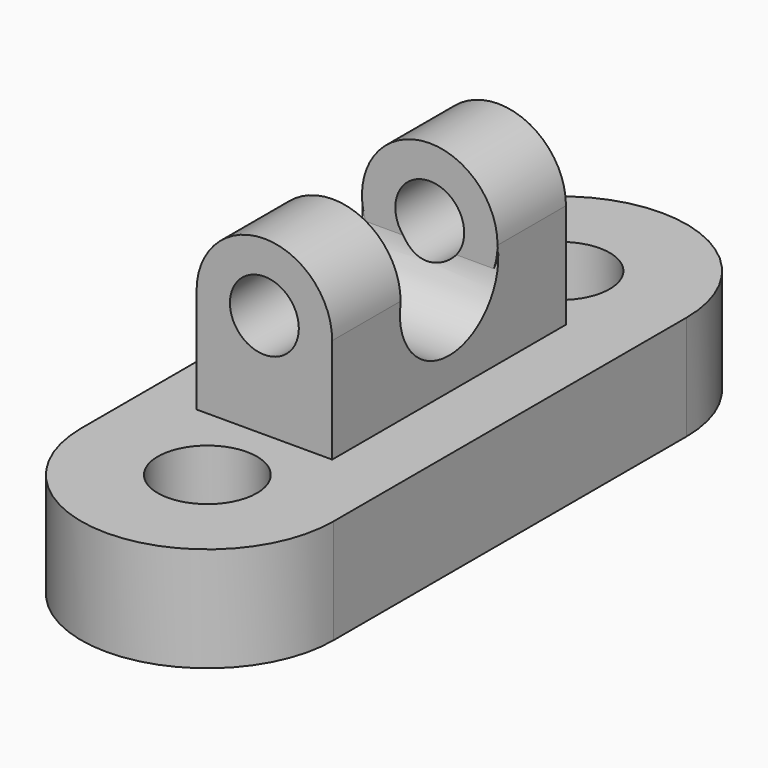
from build123d import *

# Parameters (mm, degrees)
F0_W      = 32.9013951123
F0_H      = 70.9037855268
F1_DEPTH  = 25.4
F2_DEPTH  = 50.8
F3_R      = 14.9412695824
F4_DEPTH  = 76.2
F5_W      = 16.4506975561
F5_H      = 20.7484884761
F7_W      = 16.4506975561
F7_H      = 20.7484884761
F9_R      = 8.3599226064
F10_DEPTH = 508


with BuildPart() as f1:
    # F0 (on Top) → F1 (new body)
    with BuildSketch(Plane.XY):
        with BuildLine():
            Line((28.4018162638, 52.9936365783), (9.7189312353, 52.9936365783))
            ThreePointArc((9.7189312353, 52.9936365783), (-2.1936381236, 41.0810672195), (-14.1062074824, 52.9936365783))
            Line((-14.1062074824, 52.9936365783), (-32.7890925109, 52.9936365783))
            Line((-32.7890925109, 52.9936365783), (-32.7890925109, -54.1481785476))
            Line((-32.7890925109, -54.1481785476), (-14.2189597558, -54.1481785476))
            ThreePointArc((-14.2189597558, -54.1481785476), (-2.1936381236, -42.1228569154), (9.8316835087, -54.1481785476))
            Line((9.8316835087, -54.1481785476), (28.4018162638, -54.1481785476))
            Line((28.4018162638, -54.1481785476), (28.4018162638, 52.9936365783))
        make_face()
        with Locations((-4.080792889, 0.9530261159)):
            Rectangle(F0_W, F0_H, mode=Mode.SUBTRACT)
        with BuildLine():
            ThreePointArc((-14.1062074824, 52.9936365783), (-2.1936381236, 64.9062059372), (9.7189312353, 52.9936365783))
            Line((9.7189312353, 52.9936365783), (28.4018162638, 52.9936365783))
            ThreePointArc((28.4018162638, 52.9936365783), (-2.1936381236, 83.5890909657), (-32.7890925109, 52.9936365783))
            Line((-32.7890925109, 52.9936365783), (-14.1062074824, 52.9936365783))
        make_face()
        with BuildLine():
            ThreePointArc((-32.7890925109, -54.1481785476), (-2.1936381236, -84.743632935), (28.4018162638, -54.1481785476))
            Line((28.4018162638, -54.1481785476), (9.8316835087, -54.1481785476))
            ThreePointArc((9.8316835087, -54.1481785476), (-2.1936381236, -66.1735001799), (-14.2189597558, -54.1481785476))
            Line((-14.2189597558, -54.1481785476), (-32.7890925109, -54.1481785476))
        make_face()
    extrude(amount=F1_DEPTH)

    # F0 (on Top) → F2 (join)
    with BuildSketch(Plane.XY):
        with Locations((-4.080792889, 0.9530261159)):
            Rectangle(F0_W, F0_H)
    extrude(amount=F2_DEPTH)

    # F3 (on face) → F4 (cut)
    with BuildSketch(Plane.YZ.offset(12.3699046671)):
        with Locations((0.9530261159, 48.1445454061)):
            Circle(F3_R)
    extrude(amount=-F4_DEPTH, mode=Mode.SUBTRACT)

    # F5 (on face) → F6 (revolve)
    with BuildSketch(Plane.XY.offset(50.8)):
        with Locations((4.1445558891, 26.0306746412)):
            Rectangle(F5_W, F5_H)
    revolve(axis=Axis((-4.080792889, 26.0306746412, 50.8), (0, -1, 0)))

    # F7 (on face) → F8 (revolve)
    with BuildSketch(Plane.XY.offset(50.8)):
        with Locations((-12.3061416671, -24.1246224094)):
            Rectangle(F7_W, F7_H)
    revolve(axis=Axis((-4.080792889, -24.1246224094, 50.8), (0, 1, 0)))

    # F9 (on face) → F10 (cut)
    with BuildSketch(Plane.XZ.offset(34.4988666475)):
        with Locations((-4.080792889, 50.8)):
            Circle(F9_R)
    extrude(amount=-F10_DEPTH, mode=Mode.SUBTRACT)


solid = f1.part
